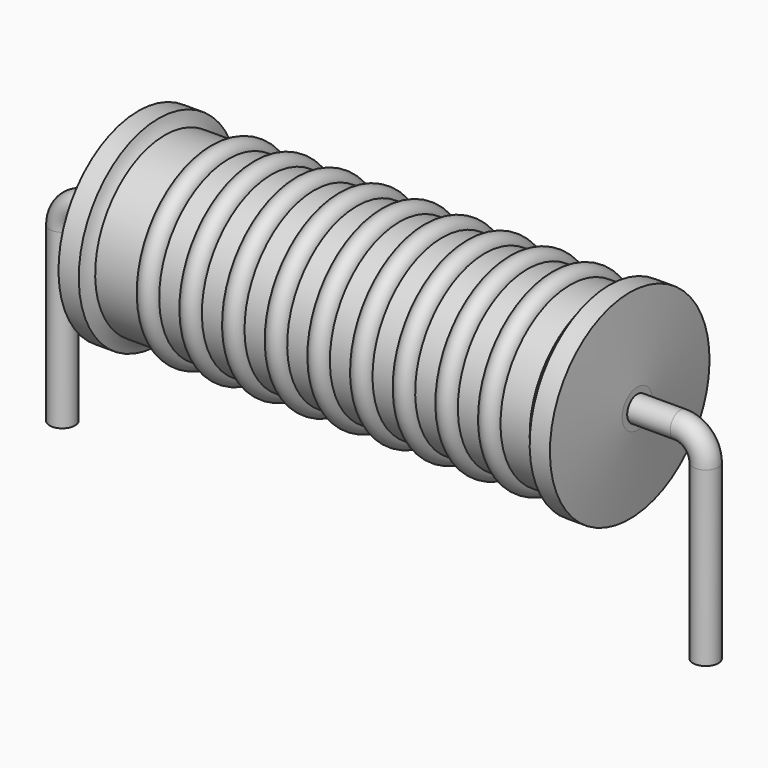
from build123d import *

# Parameters (mm, degrees)
SKETCH_R = 0.4


with BuildPart() as revolution:
    # Sketch002 → Revolution (revolve)
    with BuildSketch(Plane.XZ):
        with BuildLine():
            Line((2.4, 6.4), (3.04, 6.4))
            ThreePointArc((3.04, 6.4), (3.117022, 6.189121), (3.238, 6))
            Line((3.238, 6), (16.96, 6))
            ThreePointArc((16.96, 6), (17.140612, 6.18351), (17.28, 6.4))
            Line((17.28, 6.4), (17.92, 6.4))
            ThreePointArc((18.16, 3.85), (18.04252, 5.125237), (17.92, 6.4))
            Line((18.16, 3.25), (18.16, 3.85))
            Line((2.16, 3.25), (18.16, 3.25))
            Line((2.16, 3.25), (2.16, 3.85))
            ThreePointArc((2.4, 6.4), (2.27748, 5.125237), (2.16, 3.85))
        make_face()
    revolve(axis=Axis((2.16, 0, 3.25), (1, 0, 0)))


with BuildPart() as sweep_body:
    # Sweep: sweep along a path in Sketch001
    with BuildLine(Plane.XZ) as sweep_path:
        Line((0, -3), (0, 2.45))
        ThreePointArc((0, 2.45), (0.234312, 3.015683), (0.799993, 3.25))
        Line((0.799993, 3.25), (19.52, 3.25))
        ThreePointArc((19.52, 3.25), (20.085685, 3.015685), (20.32, 2.45))
        Line((20.32, 2.45), (20.32, -3))
    # Sketch → Sweep (sweep)
    with BuildSketch(Plane.XY.offset(-2)):
        Circle(SKETCH_R)
    sweep(path=sweep_path.line)


with BuildPart() as revolution001:
    # Sketch003 → Revolution001 (revolve)
    with BuildSketch(Plane.XZ):
        with BuildLine():
            ThreePointArc((5.267368, 5.936), (4.930526, 6.272842), (4.593684, 5.936))
            Line((3.92, 5.936), (4.593684, 5.936))
            Line((3.92, 5.936), (3.92, 5.306))
            Line((3.92, 5.306), (16.72, 5.306))
            Line((16.72, 5.306), (16.72, 5.936))
            Line((16.046316, 5.936), (16.72, 5.936))
            ThreePointArc((16.046316, 5.936), (15.709474, 6.272842), (15.372632, 5.936))
            Line((14.698947, 5.936), (15.372632, 5.936))
            ThreePointArc((14.698947, 5.936), (14.362105, 6.272842), (14.025263, 5.936))
            Line((13.351579, 5.936), (14.025263, 5.936))
            ThreePointArc((13.351579, 5.936), (13.014737, 6.272842), (12.677895, 5.936))
            Line((12.004211, 5.936), (12.677895, 5.936))
            ThreePointArc((12.004211, 5.936), (11.667368, 6.272842), (11.330526, 5.936))
            Line((10.656842, 5.936), (11.330526, 5.936))
            ThreePointArc((10.656842, 5.936), (10.32, 6.272842), (9.983158, 5.936))
            Line((9.309474, 5.936), (9.983158, 5.936))
            ThreePointArc((9.309474, 5.936), (8.972632, 6.272842), (8.635789, 5.936))
            Line((7.962105, 5.936), (8.635789, 5.936))
            ThreePointArc((7.962105, 5.936), (7.625263, 6.272842), (7.288421, 5.936))
            Line((6.614737, 5.936), (7.288421, 5.936))
            ThreePointArc((6.614737, 5.936), (6.277895, 6.272842), (5.941053, 5.936))
            Line((5.267368, 5.936), (5.941053, 5.936))
        make_face()
    revolve(axis=Axis((2.56, 0, 3.25), (1, 0, 0)))


solid = Compound([revolution.part, sweep_body.part, revolution001.part])
